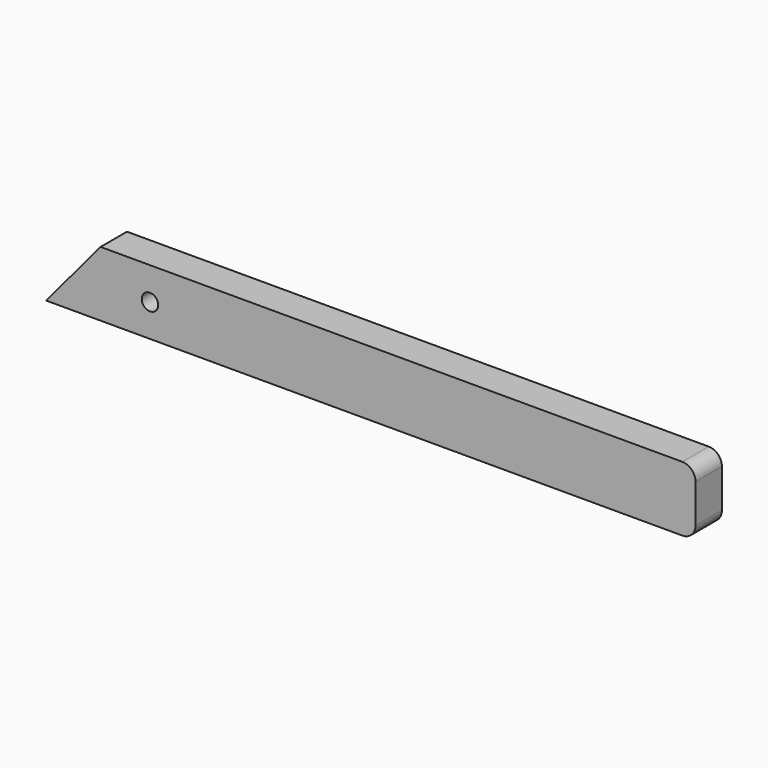
from build123d import *

# Parameters (mm, degrees)
F0_R     = 3.175
F1_DEPTH = 12.7
F2_R     = 5.08
F3_R     = 5.08


with BuildPart() as f1:
    # F0 (on Front) → F1 (new body)
    with BuildSketch(Plane.XZ):
        Polygon((20.977491, 25), (0, 0), (250, 0), (250, 25), align=None)
        with Locations((40, 12.5)):
            Circle(F0_R, mode=Mode.SUBTRACT)
    extrude(amount=F1_DEPTH)

    # F2
    f2_edges = [f1.edges().sort_by_distance(p)[0] for p in [
        (250, -6.35, 25),
    ]]
    fillet(f2_edges, radius=F2_R)

    # F3
    f3_edges = [f1.edges().sort_by_distance(p)[0] for p in [
        (250, -6.35, 0),
    ]]
    fillet(f3_edges, radius=F3_R)


solid = f1.part
